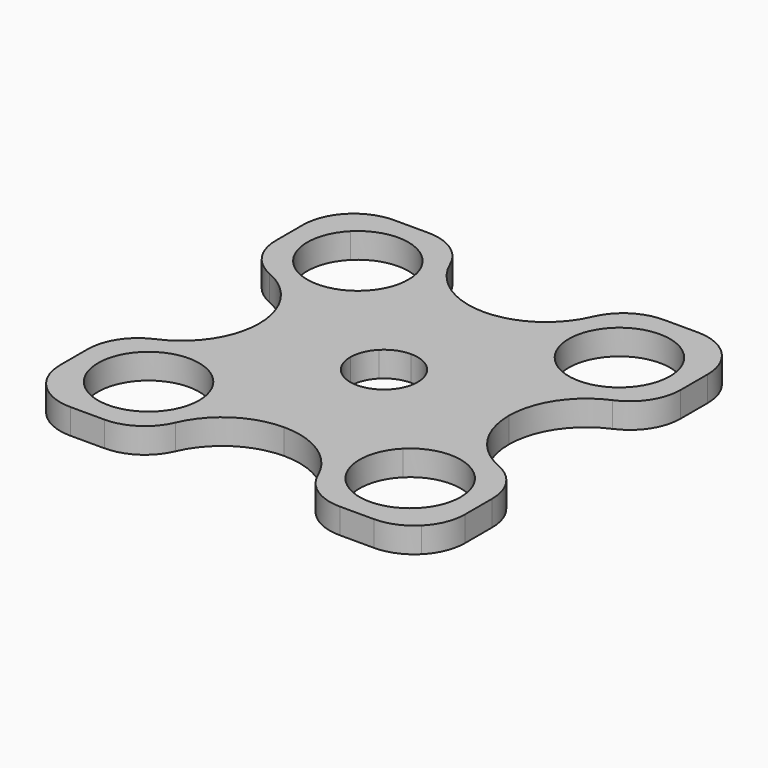
from build123d import *

# Parameters (mm, degrees)
F1_DEPTH = 4.7625
F2_R     = 9.525


with BuildPart() as f1:
    # F0 (on Top) → F1 (new body)
    with BuildSketch(Plane.XY):
        with BuildLine():
            Line((-17.8944237276, -17.8944237276), (-4.4901280605, -4.4901280605))
            ThreePointArc((-4.4901280605, -4.4901280605), (-5.8666350314, -2.4300397955), (-6.35, 0))
            Line((-6.35, 0), (-23.4970493061, 0))
            ThreePointArc((-23.4970493061, 0), (-27.774154539, -10.325845461), (-38.1, -14.6029506939))
            Line((-38.1, -14.6029506939), (-38.1, -28.575))
            ThreePointArc((-38.1, -28.575), (-37.3749525472, -32.2200596933), (-35.3101920908, -35.3101920908))
            Line((-35.3101920908, -35.3101920908), (-31.3648079092, -31.3648079092))
            ThreePointArc((-31.3648079092, -31.3648079092), (-31.3648079092, -17.8944237276), (-17.8944237276, -17.8944237276))
        make_face()
        with BuildLine():
            ThreePointArc((-6.35, 0), (-5.8666350314, 2.4300397955), (-4.4901280605, 4.4901280605))
            Line((-4.4901280605, 4.4901280605), (-17.8944237276, 17.8944237276))
            ThreePointArc((-17.8944237276, 17.8944237276), (-31.3648079092, 17.8944237276), (-31.3648079092, 31.3648079092))
            Line((-31.3648079092, 31.3648079092), (-35.3101920908, 35.3101920908))
            ThreePointArc((-35.3101920908, 35.3101920908), (-37.3749525472, 32.2200596933), (-38.1, 28.575))
            Line((-38.1, 28.575), (-38.1, 14.6029506939))
            ThreePointArc((-38.1, 14.6029506939), (-27.774154539, 10.325845461), (-23.4970493061, 0))
            Line((-23.4970493061, 0), (-6.35, 0))
        make_face()
        with BuildLine():
            ThreePointArc((-4.4901280605, 4.4901280605), (-2.4300397955, 5.8666350314), (0, 6.35))
            Line((0, 6.35), (0, 23.4970493061))
            ThreePointArc((0, 23.4970493061), (-10.325845461, 27.774154539), (-14.6029506939, 38.1))
            Line((-14.6029506939, 38.1), (-28.575, 38.1))
            ThreePointArc((-28.575, 38.1), (-32.2200596933, 37.3749525472), (-35.3101920908, 35.3101920908))
            Line((-35.3101920908, 35.3101920908), (-31.3648079092, 31.3648079092))
            ThreePointArc((-31.3648079092, 31.3648079092), (-20.9845561251, 33.4295683656), (-15.1046158184, 24.6296158184))
            ThreePointArc((-15.1046158184, 24.6296158184), (-15.8296632712, 20.9845561251), (-17.8944237276, 17.8944237276))
            Line((-17.8944237276, 17.8944237276), (-4.4901280605, 4.4901280605))
        make_face()
        with BuildLine():
            ThreePointArc((0, 6.35), (2.4300397955, 5.8666350314), (4.4901280605, 4.4901280605))
            Line((4.4901280605, 4.4901280605), (17.8944237276, 17.8944237276))
            ThreePointArc((17.8944237276, 17.8944237276), (17.8944237276, 31.3648079092), (31.3648079092, 31.3648079092))
            Line((31.3648079092, 31.3648079092), (35.3101920908, 35.3101920908))
            ThreePointArc((35.3101920908, 35.3101920908), (32.2200596933, 37.3749525472), (28.575, 38.1))
            Line((28.575, 38.1), (14.6029506939, 38.1))
            ThreePointArc((14.6029506939, 38.1), (10.325845461, 27.774154539), (0, 23.4970493061))
            Line((0, 23.4970493061), (0, 6.35))
        make_face()
        with BuildLine():
            ThreePointArc((4.4901280605, 4.4901280605), (5.8666350314, 2.4300397955), (6.35, 0))
            Line((6.35, 0), (23.4970493061, 0))
            ThreePointArc((23.4970493061, 0), (27.774154539, 10.325845461), (38.1, 14.6029506939))
            Line((38.1, 14.6029506939), (38.1, 28.575))
            ThreePointArc((38.1, 28.575), (37.3749525472, 32.2200596933), (35.3101920908, 35.3101920908))
            Line((35.3101920908, 35.3101920908), (31.3648079092, 31.3648079092))
            ThreePointArc((31.3648079092, 31.3648079092), (33.4295683656, 28.2746755117), (34.1546158184, 24.6296158184))
            ThreePointArc((34.1546158184, 24.6296158184), (28.2746755117, 15.8296632712), (17.8944237276, 17.8944237276))
            Line((17.8944237276, 17.8944237276), (4.4901280605, 4.4901280605))
        make_face()
        with BuildLine():
            Line((23.4970493061, 0), (6.35, 0))
            ThreePointArc((6.35, 0), (5.8666350314, -2.4300397955), (4.4901280605, -4.4901280605))
            Line((4.4901280605, -4.4901280605), (17.8944237276, -17.8944237276))
            ThreePointArc((17.8944237276, -17.8944237276), (28.2746755117, -15.8296632712), (34.1546158184, -24.6296158184))
            ThreePointArc((34.1546158184, -24.6296158184), (33.4295683656, -28.2746755117), (31.3648079092, -31.3648079092))
            Line((31.3648079092, -31.3648079092), (35.3101920908, -35.3101920908))
            ThreePointArc((35.3101920908, -35.3101920908), (37.3749525472, -32.2200596933), (38.1, -28.575))
            Line((38.1, -28.575), (38.1, -14.6029506939))
            ThreePointArc((38.1, -14.6029506939), (27.774154539, -10.325845461), (23.4970493061, 0))
        make_face()
        with BuildLine():
            Line((17.8944237276, -17.8944237276), (4.4901280605, -4.4901280605))
            ThreePointArc((4.4901280605, -4.4901280605), (2.4300397955, -5.8666350314), (0, -6.35))
            Line((0, -6.35), (0, -23.4970493061))
            ThreePointArc((0, -23.4970493061), (10.325845461, -27.774154539), (14.6029506939, -38.1))
            Line((14.6029506939, -38.1), (28.575, -38.1))
            ThreePointArc((28.575, -38.1), (32.2200596933, -37.3749525472), (35.3101920908, -35.3101920908))
            Line((35.3101920908, -35.3101920908), (31.3648079092, -31.3648079092))
            ThreePointArc((31.3648079092, -31.3648079092), (17.8944237276, -31.3648079092), (17.8944237276, -17.8944237276))
        make_face()
        with BuildLine():
            Line((0, -23.4970493061), (0, -6.35))
            ThreePointArc((0, -6.35), (-2.4300397955, -5.8666350314), (-4.4901280605, -4.4901280605))
            Line((-4.4901280605, -4.4901280605), (-17.8944237276, -17.8944237276))
            ThreePointArc((-17.8944237276, -17.8944237276), (-15.8296632712, -20.9845561251), (-15.1046158184, -24.6296158184))
            ThreePointArc((-15.1046158184, -24.6296158184), (-20.9845561251, -33.4295683656), (-31.3648079092, -31.3648079092))
            Line((-31.3648079092, -31.3648079092), (-35.3101920908, -35.3101920908))
            ThreePointArc((-35.3101920908, -35.3101920908), (-32.2200596933, -37.3749525472), (-28.575, -38.1))
            Line((-28.575, -38.1), (-14.6029506939, -38.1))
            ThreePointArc((-14.6029506939, -38.1), (-10.325845461, -27.774154539), (0, -23.4970493061))
        make_face()
    extrude(amount=F1_DEPTH)

    # F2
    f2_edges = [f1.edges().sort_by_distance(p)[0] for p in [
        (-38.1, 14.602951, 2.38125),
        (-38.1, -14.602951, 2.38125),
        (-14.602951, -38.1, 2.38125),
        (14.602951, -38.1, 2.38125),
        (38.1, -14.602951, 2.38125),
        (38.1, 14.602951, 2.38125),
        (-14.602951, 38.1, 2.38125),
        (14.602951, 38.1, 2.38125),
    ]]
    fillet(f2_edges, radius=F2_R)


solid = f1.part
